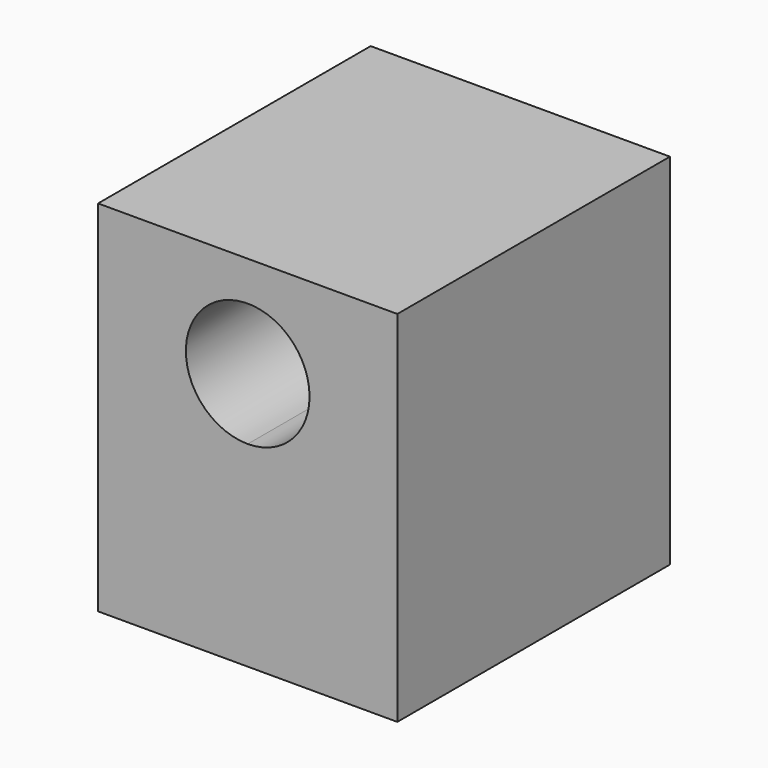
from build123d import *

# Parameters (mm, degrees)
F0_W     = 41.275
F0_H     = 49.53
F1_DEPTH = 46.99


with BuildPart() as f1:
    # F0 (on Front) → F1 (new body)
    with BuildSketch(Plane.XZ):
        Rectangle(F0_W, F0_H)
        with BuildLine():
            ThreePointArc((0, 2.266854), (-6.03031, 16.82531), (8.528146, 10.795))
            ThreePointArc((8.528146, 10.795), (6.03031, 4.76469), (0, 2.266854))
        make_face(mode=Mode.SUBTRACT)
    extrude(amount=F1_DEPTH)


solid = f1.part
